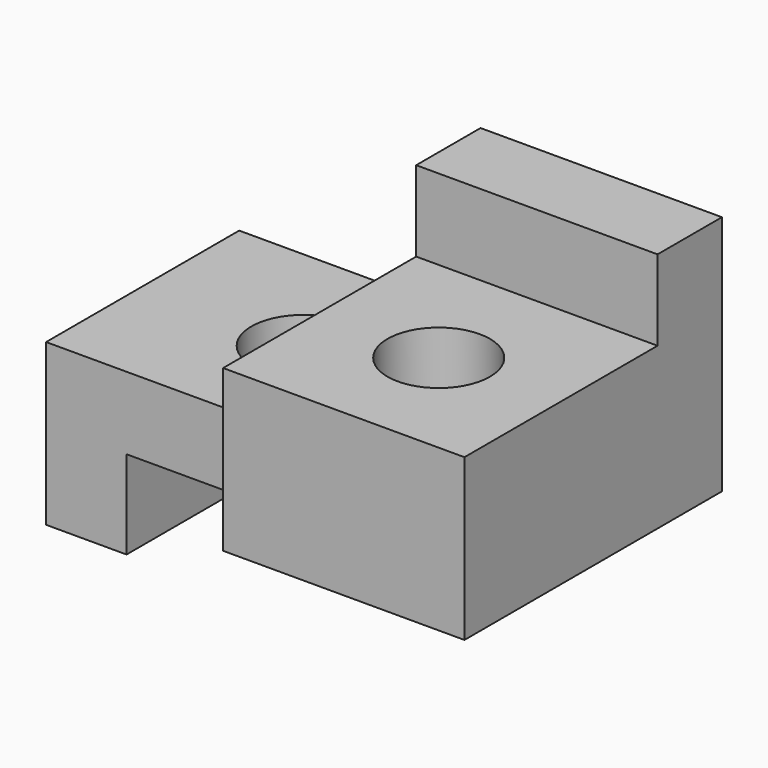
from build123d import *

# Parameters (mm, degrees)
F1_DEPTH = 19.05
F3_DEPTH = 19.05
F4_R     = 4.043165
F5_DEPTH = 25.4
F6_R     = 4.123579
F7_DEPTH = 25.4


with BuildPart() as f1:
    # F0 (on Right) → F1 (new body)
    with BuildSketch(Plane.YZ):
        Polygon((19.05, 6.970117), (0, 6.970117), (0, -5.729883), (25.4, -5.729883), (25.4, 13.320117), (19.05, 13.320117), align=None)
    extrude(amount=F1_DEPTH)

    # F4 (on face) → F5 (cut)
    with BuildSketch(Plane.XY.offset(6.970117)):
        with Locations((9.525, 9.369493)):
            Circle(F4_R)
    extrude(amount=-F5_DEPTH, mode=Mode.SUBTRACT)


with BuildPart() as f3:
    # F2 (on face) → F3 (new body)
    with BuildSketch(Plane(origin=(0, 25.4, 0), x_dir=(-1, 0, 0), z_dir=(0, 1, 0))):
        Polygon((0, 0), (0, -5.729883), (12.7, -5.729883), (12.7, -12.7), (19.05, -12.7), (19.05, 0), align=None)
    extrude(amount=-F3_DEPTH)

    # F6 (on face) → F7 (cut)
    with BuildSketch(Plane.XY):
        with Locations((-6.35, 15.875)):
            Circle(F6_R)
    extrude(amount=-F7_DEPTH, mode=Mode.SUBTRACT)


solid = Compound([f1.part, f3.part])
